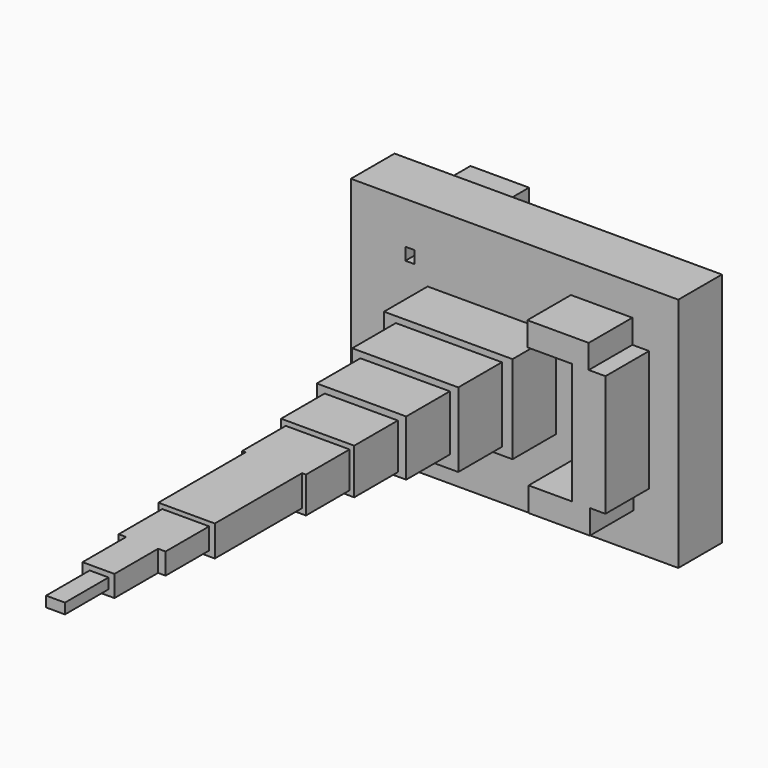
from build123d import *

# Parameters (mm, degrees)
F0_W      = 152.5348722935
F0_H      = 110.0516840816
F1_DEPTH  = 25.4
F2_W      = 59.8810613155
F2_H      = 41.0670798738
F3_DEPTH  = 25.4
F5_DEPTH  = 25.4
F6_W      = 3.5402644426
F6_H      = 4.0460177697
F7_DEPTH  = 25.4
F8_W      = 49.3959197775
F8_H      = 34.7048761323
F9_DEPTH  = 25.4
F10_W     = 41.6679419577
F10_H     = 25.9291101247
F11_DEPTH = 25.4
F12_W     = 34.0640768409
F12_H     = 21.1985725909
F13_DEPTH = 25.4
F14_W     = 29.7382287681
F14_H     = 16.7909711599
F15_DEPTH = 25.4
F16_W     = 26.2991152704
F16_H     = 14.3633615226
F16_W_2   = 22.8600006667
F16_H_2   = 10.3173442185
F17_DEPTH = 25.4
F18_W     = 26.2991152704
F18_H     = 14.3633615226
F18_W_2   = 22.4553988955
F18_H_2   = 10.1150441915
F18_W_3   = 14.3633633852
F18_H_3   = 4.6529192477
F18_W_4   = 8.4966383874
F18_H_4   = 1.4161076397
F19_DEPTH = 25.4
F20_W     = 21.8484961079
F20_H     = 9.9127423018
F21_DEPTH = 25.4
F22_W     = 14.8691139184
F22_H     = 9.9127423018
F23_DEPTH = 25.4
F24_W     = 8.8000879623
F24_H     = 4.8552211374
F25_DEPTH = 25.4
F26_W     = 27.6140682399
F26_H     = 29.4347768649
F26_W_2   = 9.7104460001
F26_H_2   = 15.1725648902
F26_W_3   = 27.3106172681
F26_H_3   = 26.7037190497
F26_W_4   = 11.2277008593
F26_H_4   = 11.5311481059
F26_W_5   = 3.9448663592
F26_H_5   = 7.5862845405
F26_W_6   = 4.2483173311
F26_H_6   = 5.7655721903
F27_DEPTH = 25.4
F28_DEPTH = 25.4
F30_DEPTH = 25.4


with BuildPart() as f1:
    # F0 (on Front) → F1 (new body)
    with BuildSketch(Plane.XZ):
        with Locations((0.2022981644, 20.7358412445)):
            Rectangle(F0_W, F0_H)
    extrude(amount=F1_DEPTH)

    # F2 (on face) → F3 (join)
    with BuildSketch(Plane.XZ.offset(25.4)):
        with Locations((-10.3847794235, 22.6576993009)):
            Rectangle(F2_W, F2_H)
    extrude(amount=F3_DEPTH)

    # F4 (on face) → F5 (cut)
    with BuildSketch(Plane(origin=(-40.3253100812, 0, 0), x_dir=(0, -1, 0), z_dir=(-1, 0, 0))):
        Polygon((35.9776653349, 34.7957536578), (25.4, 34.7957536578), (25.4, 28.1198229641), (30.6888326675, 28.1198229641), (35.9776653349, 28.1198229641), align=None)
    extrude(amount=-F5_DEPTH, mode=Mode.SUBTRACT)

    # F6 (on face) → F7 (cut)
    with BuildSketch(Plane(origin=(-40.3253100812, 0, 0), x_dir=(0, -1, 0), z_dir=(-1, 0, 0))):
        with Locations((39.2070347443, 17.6001775544)):
            Rectangle(F6_W, F6_H)
        with Locations((39.2070347443, 13.5541597847)):
            Rectangle(F6_W, F6_H)
        with Locations((42.7472991869, 13.5541597847)):
            Rectangle(F6_W, F6_H)
        with Locations((42.7472991869, 17.6001775544)):
            Rectangle(F6_W, F6_H)
    extrude(amount=-F7_DEPTH, mode=Mode.SUBTRACT)

    # F8 (on face) → F9 (join)
    with BuildSketch(Plane.XZ.offset(50.8)):
        with Locations((-10.1041528396, 22.9534148239)):
            Rectangle(F8_W, F8_H)
    extrude(amount=F9_DEPTH)

    # F10 (on face) → F11 (join)
    with BuildSketch(Plane.XZ.offset(76.2)):
        with Locations((-10.1783443242, 24.4610188529)):
            Rectangle(F10_W, F10_H)
    extrude(amount=F11_DEPTH)

    # F12 (on face) → F13 (join)
    with BuildSketch(Plane.XZ.offset(101.6)):
        with Locations((-10.288214311, 23.9018974826)):
            Rectangle(F12_W, F12_H)
    extrude(amount=F13_DEPTH)

    # F14 (on face) → F15 (join)
    with BuildSketch(Plane.XZ.offset(127)):
        with Locations((-10.2836284786, 23.8715037704)):
            Rectangle(F14_W, F14_H)
    extrude(amount=F15_DEPTH)

    # F16 (on face) → F17 (join)
    with BuildSketch(Plane.XZ.offset(152.4)):
        with Locations((-10.3847794235, 25.085308589)):
            Rectangle(F16_W, F16_H)
        with Locations((-10.6882309483, 25.489911437)):
            Rectangle(F16_W_2, F16_H_2, mode=Mode.SUBTRACT)
        with Locations((-10.6882309483, 25.489911437)):
            Rectangle(F16_W_2, F16_H_2)
    extrude(amount=F17_DEPTH)

    # F18 (on face) → F19 (join)
    with BuildSketch(Plane.XZ.offset(177.8)):
        with Locations((-10.3847794235, 25.085308589)):
            Rectangle(F18_W, F18_H)
        with Locations((-10.8905318339, 25.3887614235)):
            Rectangle(F18_W_2, F18_H_2, mode=Mode.SUBTRACT)
        with Locations((-10.8905318339, 25.3887614235)):
            Rectangle(F18_W_2, F18_H_2)
        Polygon((-2.0904429257, 22.3542470485), (-20.499823615, 22.3542470485), (-20.499823615, 28.8278758526), (-18.6791159213, 28.8278758526), (-4.3157525361, 28.8278758526), (-2.0904429257, 28.8278758526), align=None, mode=Mode.SUBTRACT)
        Polygon((-20.499823615, 28.8278758526), (-20.499823615, 22.3542470485), (-2.0904429257, 22.3542470485), (-2.0904429257, 28.8278758526), (-4.3157525361, 28.8278758526), (-4.3157525361, 24.1749566048), (-18.6791159213, 24.1749566048), (-18.6791159213, 28.8278758526), align=None)
        with Locations((-11.4974342287, 26.5014162287)):
            Rectangle(F18_W_3, F18_H_3)
        with Locations((-12.2054871172, 26.5014162287)):
            Rectangle(F18_W_4, F18_H_4, mode=Mode.SUBTRACT)
        with Locations((-12.2054871172, 26.5014162287)):
            Rectangle(F18_W_4, F18_H_4)
    extrude(amount=F19_DEPTH)

    # F20 (on face) → F21 (join)
    with BuildSketch(Plane.XZ.offset(203.2)):
        with Locations((-10.789381311, 25.2876104787)):
            Rectangle(F20_W, F20_H)
    extrude(amount=F21_DEPTH)

    # F22 (on face) → F23 (join)
    with BuildSketch(Plane.XZ.offset(228.6)):
        with Locations((-10.7893806417, 25.2876104787)):
            Rectangle(F22_W, F22_H)
    extrude(amount=F23_DEPTH)

    # F24 (on face) → F25 (join)
    with BuildSketch(Plane.XZ.offset(254)):
        with Locations((-10.4859292042, 25.4899105057)):
            Rectangle(F24_W, F24_H)
    extrude(amount=F25_DEPTH)

    # F26 (on face) → F27 (join)
    with BuildSketch(Plane(origin=(0, 0, 0), x_dir=(-1, 0, 0), z_dir=(0, 1, 0))):
        with Locations((47.5069899112, -1.9724336453)):
            Rectangle(F26_W, F26_H)
        with Locations((47.962166369, -1.2138050515)):
            Rectangle(F26_W_2, F26_H_2, mode=Mode.SUBTRACT)
        with Locations((47.3552644253, 51.8901776522)):
            Rectangle(F26_W_3, F26_H_3)
        with Locations((48.1138918549, 53.1039815396)):
            Rectangle(F26_W_4, F26_H_4, mode=Mode.SUBTRACT)
        Polygon((-4.8383618705, 12.1380519122), (-12.8798228689, 12.1380519122), (-21.5281862766, 12.1380519122), (-21.5281862766, -3.3379644156), (-4.8383618705, -3.3379644156), align=None)
        Polygon((-12.8798228689, 41.5728315711), (-21.5281862766, 41.5728315711), (-21.5281862766, 37.6279652119), (-21.5281862766, 12.1380519122), (-12.8798228689, 12.1380519122), align=None)
        Polygon((-4.2314594612, 41.5728315711), (-4.2314594612, 54.6212382615), (-21.5281862766, 54.6212382615), (-21.5281862766, 41.5728315711), (-12.8798228689, 41.5728315711), align=None)
        Polygon((-21.5281862766, 41.5728315711), (-21.5281862766, 54.6212382615), (-40.0387123227, 46.124599874), (-21.5281862766, 37.6279652119), align=None)
        with Locations((47.962166369, -1.2138050515)):
            Rectangle(F26_W_2, F26_H_2)
        with Locations((48.4173446894, -1.0620807297)):
            Rectangle(F26_W_5, F26_H_5, mode=Mode.SUBTRACT)
        Polygon((-21.5281862766, -3.3379644156), (-21.5281862766, 12.1380519122), (-40.0387123227, 4.5517692342), align=None)
        with Locations((48.1138918549, 53.1039815396)):
            Rectangle(F26_W_4, F26_H_4)
        with Locations((48.5690701753, 53.2557070255)):
            Rectangle(F26_W_6, F26_H_6, mode=Mode.SUBTRACT)
    extrude(amount=F27_DEPTH)

    # F28 (cut): faces of the model
    f28_faces = [f1.faces().sort_by_distance(p)[0] for p in [
        (-48.5690701753, 0, 53.2557070255),
        (-48.4173446894, 0, -1.0620807297),
    ]]
    extrude(f28_faces, amount=-F28_DEPTH, mode=Mode.SUBTRACT)

    # F29 (on face) → F30 (join)
    with BuildSketch(Plane.XZ.offset(25.4)):
        Polygon((26.4339819551, 50.2717718482), (47.270976007, 50.2717718482), (55.059555918, 50.2717718482), (55.059555918, 61.3983161747), (26.4339819551, 61.3983161747), align=None)
        Polygon((47.270976007, 50.2717718482), (47.270976007, -6.1701769009), (55.5653087795, -6.1701769009), (62.848135829, -6.1701769009), (62.848135829, 50.2717718482), (55.059555918, 50.2717718482), align=None)
        Polygon((47.270976007, -6.1701769009), (27.0408838987, -6.1701769009), (27.0408838987, -17.4990277737), (55.5653087795, -17.4990277737), (55.5653087795, -6.1701769009), align=None)
    extrude(amount=F30_DEPTH)


solid = f1.part
